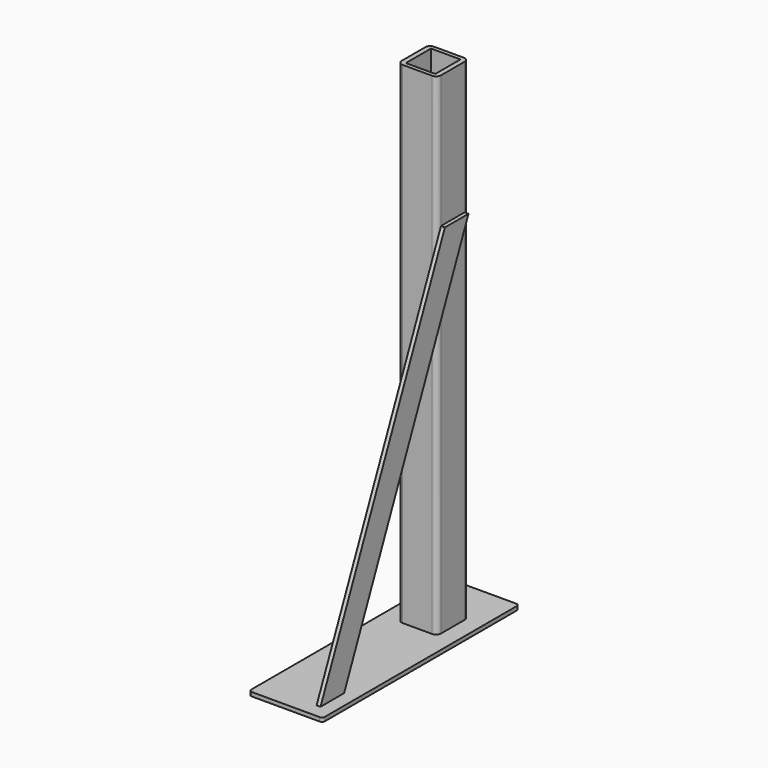
from build123d import *

# Parameters (mm, degrees)
F0_W     = 75
F0_H     = 250
F1_DEPTH = 4
F2_W     = 40
F2_H     = 40
F3_DEPTH = 500
F4_W     = 30
F4_H     = 32
F5_DEPTH = 499
F6_R     = 5
F7_R     = 3
F9_DEPTH = 4


with BuildPart() as f1:
    # F0 (on Top) → F1 (new body)
    with BuildSketch(Plane.XY):
        with Locations((37.5, 125)):
            Rectangle(F0_W, F0_H)
    extrude(amount=F1_DEPTH)

    # F2 (on face) → F3 (join)
    with BuildSketch(Plane.XY.offset(4)):
        with Locations((37.5, 187.5)):
            Rectangle(F2_W, F2_H)
    extrude(amount=F3_DEPTH)

    # F4 (on face) → F5 (cut)
    with BuildSketch(Plane.XY.offset(504)):
        with Locations((37.5, 187.5)):
            Rectangle(F4_W, F4_H)
    extrude(amount=-F5_DEPTH, mode=Mode.SUBTRACT)

    # F6
    f6_edges = [f1.edges().sort_by_distance(p)[0] for p in [
        (57.5, 167.5, 254),
        (57.5, 207.5, 254),
        (17.5, 207.5, 254),
        (17.5, 167.5, 254),
    ]]
    fillet(f6_edges, radius=F6_R)

    # F7
    f7_edges = [f1.edges().sort_by_distance(p)[0] for p in [
        (0, 250, 2),
        (0, 0, 2),
        (75, 0, 2),
        (75, 250, 2),
    ]]
    fillet(f7_edges, radius=F7_R)

    # F8 (on face) → F9 (join)
    with BuildSketch(Plane.YZ.offset(57.5)):
        Polygon((172.5, 369.087671), (14.281406, 4), (44.281406, 4), (202.5, 369.087671), align=None)
    extrude(amount=F9_DEPTH)


solid = f1.part
